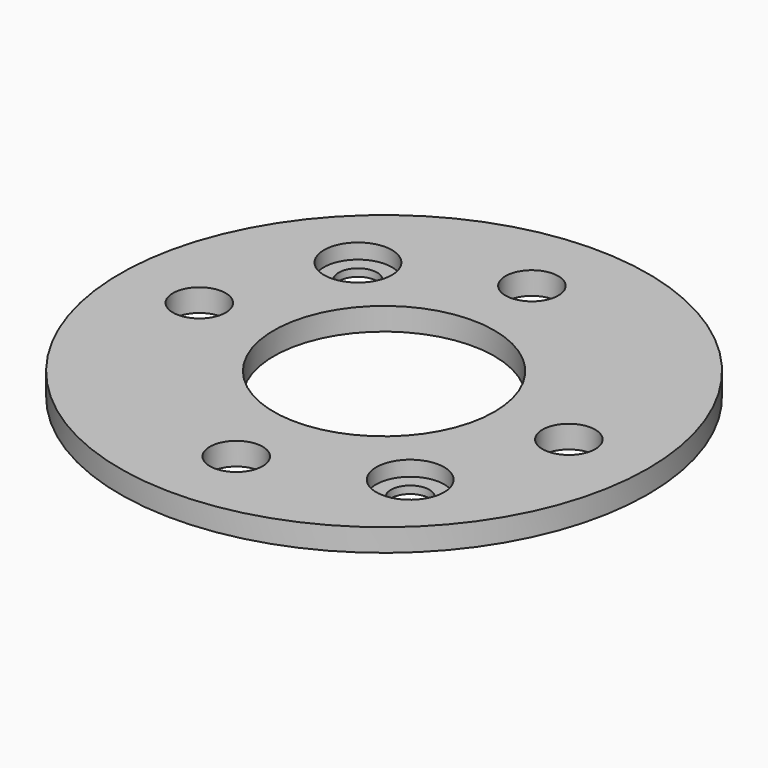
from build123d import *

# Parameters (mm, degrees)
F0_R     = 70
F0_R_2   = 7
F0_R_3   = 5.1
F0_R_4   = 29.25
F1_DEPTH = 6
F2_R     = 9
F2_R_2   = 5.1
F3_DEPTH = 4


with BuildPart() as f1:
    # F0 (on Top) → F1 (new body)
    with BuildSketch(Plane.XY):
        Circle(F0_R)
        with Locations((0, -49)):
            Circle(F0_R_2, mode=Mode.SUBTRACT)
        with Locations((34.648232, -34.648232)):
            Circle(F0_R_3, mode=Mode.SUBTRACT)
        with Locations((-49, 0)):
            Circle(F0_R_2, mode=Mode.SUBTRACT)
        with Locations((-34.648232, 34.648232)):
            Circle(F0_R_3, mode=Mode.SUBTRACT)
        Circle(F0_R_4, mode=Mode.SUBTRACT)
        with Locations((49, 0)):
            Circle(F0_R_2, mode=Mode.SUBTRACT)
        with Locations((0, 49)):
            Circle(F0_R_2, mode=Mode.SUBTRACT)
    extrude(amount=F1_DEPTH)

    # F2 (on face) → F3 (cut)
    with BuildSketch(Plane.XY.offset(6)):
        with Locations((-34.648232, 34.648232)):
            Circle(F2_R)
        with Locations((-34.648232, 34.648232)):
            Circle(F2_R_2, mode=Mode.SUBTRACT)
        with Locations((34.648232, -34.648232)):
            Circle(F2_R)
        with Locations((34.648232, -34.648232)):
            Circle(F2_R_2, mode=Mode.SUBTRACT)
    extrude(amount=-F3_DEPTH, mode=Mode.SUBTRACT)


solid = f1.part
